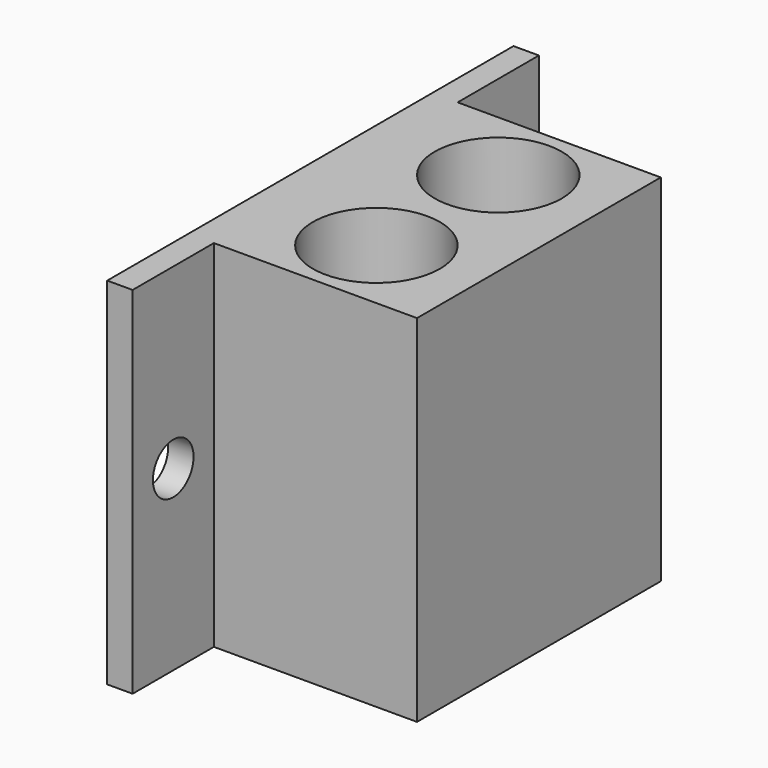
from build123d import *

# Parameters (mm, degrees)
F0_W     = 38.1
F0_H     = 19.05
F1_DEPTH = 25.4
F3_DEPTH = 25.4
F2_R     = 7.9375
F4_DEPTH = 37.592
F5_W     = 12.7
F5_H     = 44.45
F5_W_2   = 38.1
F6_DEPTH = 3.175
F8_R     = 3.175
F7_R     = 3.175
F9_DEPTH = 25.4


with BuildPart() as f1:
    # F0 (on Right) → F1 (new body)
    with BuildSketch(Plane.YZ):
        with Locations((19.05, 9.525)):
            Rectangle(F0_W, F0_H)
    extrude(amount=F1_DEPTH)

    # F3 (add): a face of the model
    f3_faces = [f1.faces().sort_by_distance(p)[0] for p in [
        (12.7, 19.05, 0),
    ]]
    extrude(f3_faces, amount=F3_DEPTH)

    # F2 (on face) → F4 (cut)
    with BuildSketch(Plane.XY.offset(19.05)):
        with Locations((12.7, 28.575)):
            Circle(F2_R)
        with Locations((12.7, 9.525)):
            Circle(F2_R)
    extrude(amount=-F4_DEPTH, mode=Mode.SUBTRACT)

    # F5 (on face) → F6 (join)
    with BuildSketch(Plane(origin=(0, 0, 0), x_dir=(0, -1, 0), z_dir=(-1, 0, 0))):
        with Locations((-44.45, -3.175)):
            Rectangle(F5_W, F5_H)
        with Locations((-19.05, -3.175)):
            Rectangle(F5_W_2, F5_H)
        with Locations((6.35, -3.175)):
            Rectangle(F5_W, F5_H)
    extrude(amount=F6_DEPTH)

    # F8 (on face) + F7 (on face) → F9 (cut)
    with BuildSketch(Plane.YZ):
        with Locations((-6.35, -3.175)):
            Circle(F8_R)
    with BuildSketch(Plane.YZ):
        with Locations((44.45, -3.175)):
            Circle(F7_R)
    extrude(amount=-F9_DEPTH, mode=Mode.SUBTRACT)


solid = f1.part
